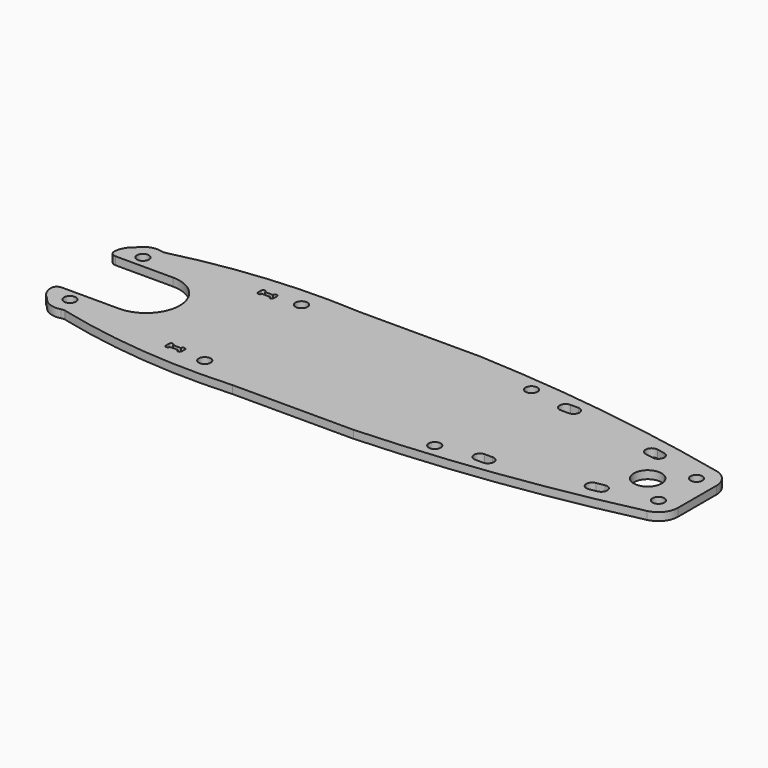
from build123d import *

# Parameters (mm, degrees)
F0_R     = 1.5
F0_R_2   = 3.5
F1_DEPTH = 2
F3_DEPTH = 25


with BuildPart() as f1:
    # F0 (on Top) → F1 (new body)
    with BuildSketch(Plane.XY):
        with BuildLine():
            ThreePointArc((-67.034419, 13.74533), (-68.448505, 12.054094), (-68.997817, 9.919106))
            ThreePointArc((-68.997817, 9.919106), (-68.531663, 8.911115), (-67.5, 8.5))
            Line((-67.5, 8.5), (-53, 8.5))
            ThreePointArc((-53, 8.5), (-46.989592, 6.010408), (-44.5, 0))
            ThreePointArc((-44.5, 0), (-46.989592, -6.010408), (-53, -8.5))
            Line((-53, -8.5), (-67.5, -8.5))
            ThreePointArc((-67.5, -8.5), (-68.531663, -8.911115), (-68.997817, -9.919106))
            ThreePointArc((-68.997817, -9.919106), (-68.448505, -12.054094), (-67.034419, -13.74533))
            ThreePointArc((-67.034419, -13.74533), (-66.819137, -13.93569), (-66.63336, -14.154938))
            ThreePointArc((-66.63336, -14.154938), (-64.466194, -15.754442), (-61.773732, -15.829696))
            ThreePointArc((-61.773732, -15.829696), (-61.260071, -15.754251), (-60.744298, -15.813559))
            ThreePointArc((-60.744298, -15.813559), (-38.15747, -19.649003), (-15.25, -20))
            Line((-15.25, -20), (15.25, -20))
            ThreePointArc((15.25, -20), (48.882685, -16.940884), (82.110948, -10.907783))
            ThreePointArc((82.110948, -10.907783), (84.908628, -9.150879), (86, -6.032766))
            Line((86, -6.032766), (86, 0))
            Line((86, 0), (86, 6.032766))
            ThreePointArc((86, 6.032766), (84.908628, 9.150879), (82.110948, 10.907783))
            ThreePointArc((82.110948, 10.907783), (48.882685, 16.940884), (15.25, 20))
            Line((15.25, 20), (-15.25, 20))
            ThreePointArc((-15.25, 20), (-38.15747, 19.649003), (-60.744298, 15.813559))
            ThreePointArc((-60.744298, 15.813559), (-61.260071, 15.754251), (-61.773732, 15.829696))
            ThreePointArc((-61.773732, 15.829696), (-64.466194, 15.754442), (-66.63336, 14.154938))
            ThreePointArc((-66.63336, 14.154938), (-66.819137, 13.93569), (-67.034419, 13.74533))
        make_face()
        with Locations((-63, -11.5)):
            Circle(F0_R, mode=Mode.SUBTRACT)
        with Locations((-26, -15.25)):
            Circle(F0_R, mode=Mode.SUBTRACT)
        with Locations((32, -15.25)):
            Circle(F0_R, mode=Mode.SUBTRACT)
        with BuildLine():
            Line((42, -12), (44, -12))
            ThreePointArc((44, -12), (45.5, -13.5), (44, -15))
            Line((44, -15), (42, -15))
            ThreePointArc((42, -15), (40.5, -13.5), (42, -12))
        make_face(mode=Mode.SUBTRACT)
        with BuildLine():
            Line((66.739528, -7.875442), (68.739528, -7.522788))
            ThreePointArc((68.739528, -7.522788), (70.477212, -8.739528), (69.260472, -10.477212))
            Line((69.260472, -10.477212), (67.260472, -10.829866))
            ThreePointArc((67.260472, -10.829866), (65.522788, -9.613126), (66.739528, -7.875442))
        make_face(mode=Mode.SUBTRACT)
        with Locations((81, -6)):
            Circle(F0_R, mode=Mode.SUBTRACT)
        with Locations((-63, 11.5)):
            Circle(F0_R, mode=Mode.SUBTRACT)
        with Locations((-26, 15.25)):
            Circle(F0_R, mode=Mode.SUBTRACT)
        with Locations((73.5, 0)):
            Circle(F0_R_2, mode=Mode.SUBTRACT)
        with Locations((81, 6)):
            Circle(F0_R, mode=Mode.SUBTRACT)
        with BuildLine():
            ThreePointArc((66.739528, 7.875442), (65.522788, 9.613126), (67.260472, 10.829866))
            Line((67.260472, 10.829866), (69.260472, 10.477212))
            ThreePointArc((69.260472, 10.477212), (70.477212, 8.739528), (68.739528, 7.522788))
            Line((68.739528, 7.522788), (66.739528, 7.875442))
        make_face(mode=Mode.SUBTRACT)
        with BuildLine():
            ThreePointArc((42, 12), (40.5, 13.5), (42, 15))
            Line((42, 15), (44, 15))
            ThreePointArc((44, 15), (45.5, 13.5), (44, 12))
            Line((44, 12), (42, 12))
        make_face(mode=Mode.SUBTRACT)
        with Locations((32, 15.25)):
            Circle(F0_R, mode=Mode.SUBTRACT)
    extrude(amount=F1_DEPTH)

    # F2 (on face) → F3 (cut)
    with BuildSketch(Plane.XY.offset(2)):
        with BuildLine():
            Line((-32.997817, 15), (-34.997817, 15))
            ThreePointArc((-34.997817, 15), (-35.497817, 15.5), (-35.997817, 15))
            Line((-35.997817, 15), (-35.997817, 14))
            ThreePointArc((-35.997817, 14), (-35.497817, 13.5), (-34.997817, 14))
            Line((-34.997817, 14), (-32.997817, 14))
            ThreePointArc((-32.997817, 14), (-32.497817, 13.5), (-31.997817, 14))
            Line((-31.997817, 14), (-31.997817, 15))
            ThreePointArc((-31.997817, 15), (-32.497817, 15.5), (-32.997817, 15))
        make_face()
        with BuildLine():
            Line((-35.997817, -14), (-35.997817, -15))
            ThreePointArc((-35.997817, -15), (-35.497817, -15.5), (-34.997817, -15))
            Line((-34.997817, -15), (-32.997817, -15))
            ThreePointArc((-32.997817, -15), (-32.497817, -15.5), (-31.997817, -15))
            Line((-31.997817, -15), (-31.997817, -14))
            ThreePointArc((-31.997817, -14), (-32.497817, -13.5), (-32.997817, -14))
            Line((-32.997817, -14), (-34.997817, -14))
            ThreePointArc((-34.997817, -14), (-35.497817, -13.5), (-35.997817, -14))
        make_face()
    extrude(amount=-F3_DEPTH, mode=Mode.SUBTRACT)


solid = f1.part
